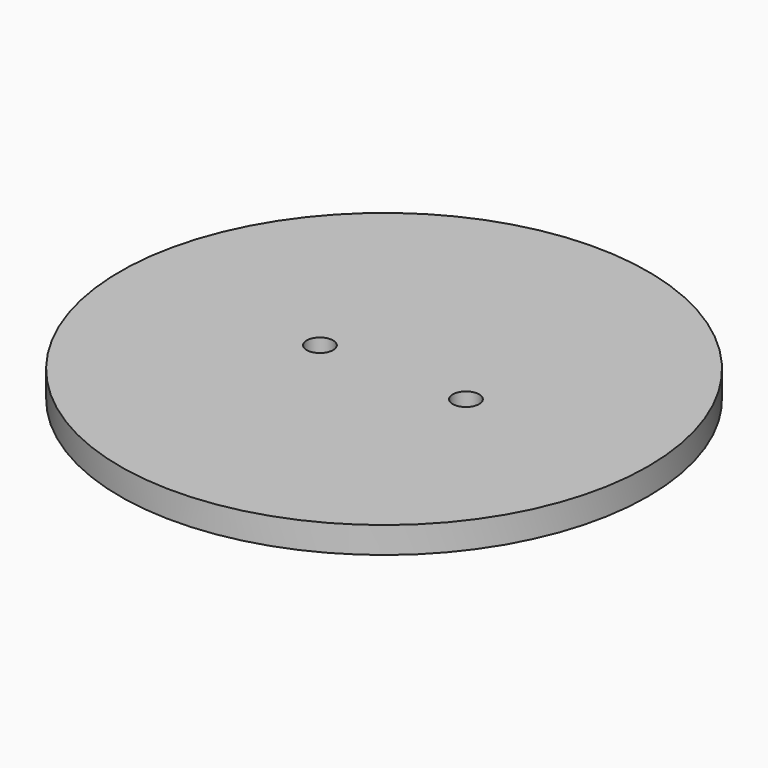
from build123d import *

# Parameters (mm, degrees)
F0_R     = 20
F1_DEPTH = 2
F2_R     = 1
F3_DEPTH = 25


with BuildPart() as f1:
    # F0 (on Top) → F1 (new body)
    with BuildSketch(Plane.XY):
        Circle(F0_R)
    extrude(amount=F1_DEPTH)

    # F2 (on face) → F3 (cut)
    with BuildSketch(Plane.XY.offset(2)):
        with Locations((-4.863449, 0)):
            Circle(F2_R)
        with Locations((6.20509, 0)):
            Circle(F2_R)
    extrude(amount=-F3_DEPTH, mode=Mode.SUBTRACT)


solid = f1.part
